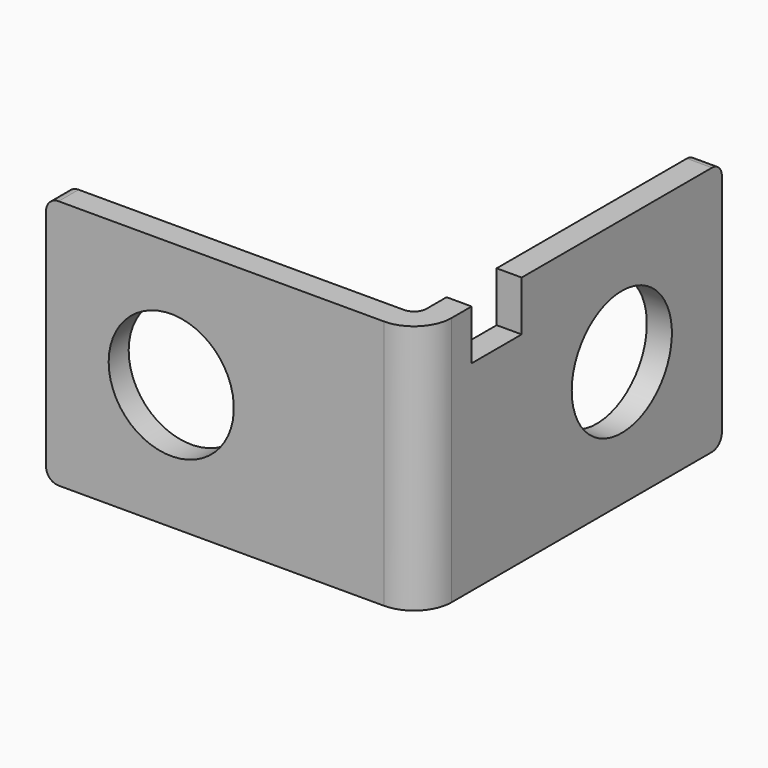
from build123d import *

# Parameters (mm, degrees)
F2_DEPTH  = 20
F3_R      = 1
F4_R      = 3
F5_R      = 5
F6_DEPTH  = 25
F7_R      = 5
F8_DEPTH  = 25
F9_W      = 5
F9_H      = 4
F10_DEPTH = 25


with BuildPart() as f2:
    # F1 (on offset) → F2 (new body)
    with BuildSketch(Plane.XY):
        Polygon((0, 1), (0, 0), (0, -1), (30, -1), (30, 29), (28, 29), (28, 1), align=None)
    extrude(amount=F2_DEPTH)

    # F3
    f3_edges = [f2.edges().sort_by_distance(p)[0] for p in [
        (0, 0, 20),
        (28, 1, 10),
        (29, 29, 0),
        (29, 29, 20),
        (0, 0, 0),
    ]]
    fillet(f3_edges, radius=F3_R)

    # F4
    f4_edges = [f2.edges().sort_by_distance(p)[0] for p in [
        (30, -1, 10),
    ]]
    fillet(f4_edges, radius=F4_R)

    # F5 (on face) → F6 (cut)
    with BuildSketch(Plane(origin=(28, 0, 0), x_dir=(0, -1, 0), z_dir=(-1, 0, 0))):
        with Locations((-19, 10)):
            Circle(F5_R)
    extrude(amount=-F6_DEPTH, mode=Mode.SUBTRACT)

    # F7 (on face) → F8 (cut)
    with BuildSketch(Plane(origin=(0, 1, 0), x_dir=(-1, 0, 0), z_dir=(0, 1, 0))):
        with Locations((-10, 10)):
            Circle(F7_R)
    extrude(amount=-F8_DEPTH, mode=Mode.SUBTRACT)

    # F9 (on face) → F10 (cut)
    with BuildSketch(Plane(origin=(28, 0, 0), x_dir=(0, -1, 0), z_dir=(-1, 0, 0))):
        with Locations((-6.5, 18)):
            Rectangle(F9_W, F9_H)
    extrude(amount=-F10_DEPTH, mode=Mode.SUBTRACT)


solid = f2.part
